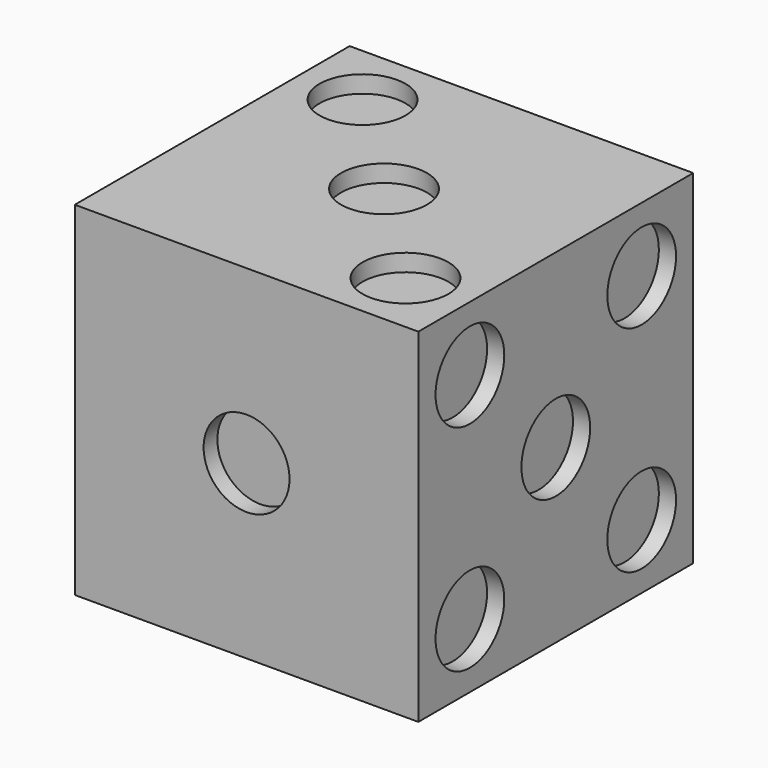
from build123d import *

# Parameters (mm, degrees)
F0_W      = 8
F0_H      = 8
F1_DEPTH  = 8
F2_R      = 1
F3_DEPTH  = 0.4
F4_R      = 1
F4_R_2    = 1.018966
F5_DEPTH  = 0.4
F6_R      = 1
F7_DEPTH  = 0.4
F8_R      = 1
F9_DEPTH  = 0.4
F10_R     = 1
F11_DEPTH = 0.4
F12_R     = 1
F13_DEPTH = 0.4


with BuildPart() as f1:
    # F0 (on Front) → F1 (new body)
    with BuildSketch(Plane.XZ):
        with Locations((2.040328, 4.226393)):
            Rectangle(F0_W, F0_H)
    extrude(amount=F1_DEPTH)

    # F2 (on face) → F3 (cut)
    with BuildSketch(Plane.XZ.offset(8)):
        with Locations((2.040328, 4.226393)):
            Circle(F2_R)
    extrude(amount=-F3_DEPTH, mode=Mode.SUBTRACT)

    # F4 (on face) → F5 (cut)
    with BuildSketch(Plane(origin=(0, 0, 0), x_dir=(-1, 0, 0), z_dir=(0, 1, 0))):
        with Locations((-4.540328, 1.726393)):
            Circle(F4_R)
        with Locations((0.640184, 6.564468)):
            Circle(F4_R_2)
    extrude(amount=-F5_DEPTH, mode=Mode.SUBTRACT)

    # F6 (on face) → F7 (cut)
    with BuildSketch(Plane(origin=(-1.959672, 0, 0), x_dir=(0, -1, 0), z_dir=(-1, 0, 0))):
        with Locations((6.5, 6.726393)):
            Circle(F6_R)
        with Locations((1.5, 6.726393)):
            Circle(F6_R)
        with Locations((1.5, 1.726393)):
            Circle(F6_R)
        with Locations((6.5, 1.726393)):
            Circle(F6_R)
    extrude(amount=-F7_DEPTH, mode=Mode.SUBTRACT)

    # F8 (on face) → F9 (cut)
    with BuildSketch(Plane.YZ.offset(6.040328)):
        with Locations((-4, 4.226393)):
            Circle(F8_R)
        with Locations((-6.5, 6.726393)):
            Circle(F8_R)
        with Locations((-1.5, 6.726393)):
            Circle(F8_R)
        with Locations((-1.5, 1.726393)):
            Circle(F8_R)
        with Locations((-6.5, 1.726393)):
            Circle(F8_R)
    extrude(amount=-F9_DEPTH, mode=Mode.SUBTRACT)

    # F10 (on face) → F11 (cut)
    with BuildSketch(Plane.XY.offset(8.226393)):
        with Locations((-0.459672, -1.5)):
            Circle(F10_R)
        with Locations((2.040328, -4)):
            Circle(F10_R)
        with Locations((4.540328, -6.5)):
            Circle(F10_R)
    extrude(amount=-F11_DEPTH, mode=Mode.SUBTRACT)

    # F12 (on face) → F13 (cut)
    with BuildSketch(Plane(origin=(0, 0, 0.226393), x_dir=(1, 0, 0), z_dir=(0, 0, -1))):
        with Locations((-0.459672, 6.5)):
            Circle(F12_R)
        with Locations((-0.459672, 4)):
            Circle(F12_R)
        with Locations((-0.459672, 1.5)):
            Circle(F12_R)
        with Locations((4.540328, 1.5)):
            Circle(F12_R)
        with Locations((4.540328, 4)):
            Circle(F12_R)
        with Locations((4.540328, 6.5)):
            Circle(F12_R)
    extrude(amount=-F13_DEPTH, mode=Mode.SUBTRACT)


solid = f1.part
